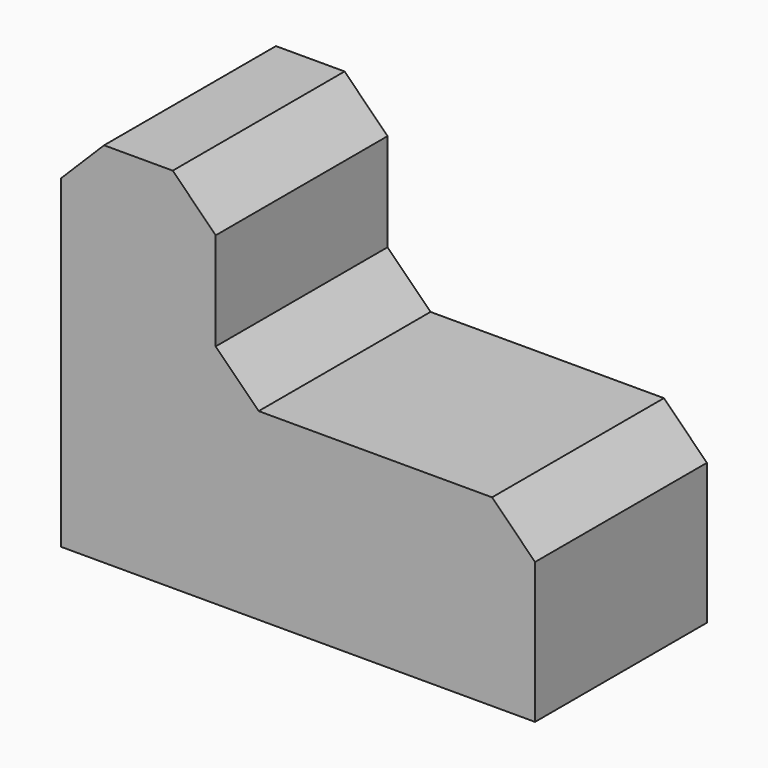
from build123d import *

# Parameters (mm, degrees)
F1_DEPTH = 25.4
F2_SIZE  = 5.08
F3_SIZE  = 5.08


with BuildPart() as f1:
    # F0 (on Front) → F1 (new body)
    with BuildSketch(Plane.XZ):
        Polygon((0, 43.451123), (0, 0), (56.036968, 0), (56.036968, 21.725561), (18.279437, 21.725561), (18.279437, 43.451123), align=None)
    extrude(amount=F1_DEPTH)

    # F2
    f2_edges = [f1.edges().sort_by_distance(p)[0] for p in [
        (56.036968, -12.7, 21.725561),
    ]]
    chamfer(f2_edges, length=F2_SIZE)

    # F3
    f3_edges = [f1.edges().sort_by_distance(p)[0] for p in [
        (18.279437, -12.7, 43.451123),
        (18.279437, -12.7, 21.725561),
        (0, -12.7, 43.451123),
    ]]
    chamfer(f3_edges, length=F3_SIZE)


solid = f1.part
